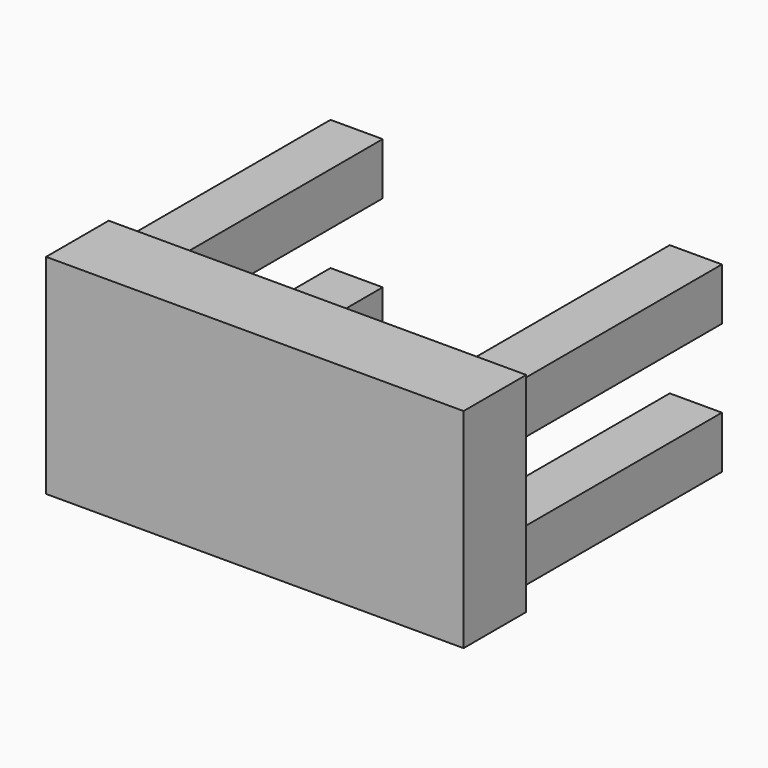
from build123d import *

# Parameters (mm, degrees)
F0_W     = 203.2
F0_H     = 101.6
F0_W_2   = 25.4
F0_H_2   = 25.4
F1_DEPTH = 38.1
F2_DEPTH = 127


with BuildPart() as f1:
    # F0 (on Front) → F1 (new body)
    with BuildSketch(Plane.XZ):
        with Locations((-2.364829, -3.819169)):
            Rectangle(F0_W, F0_H)
        with Locations((-84.914829, -35.569169)):
            Rectangle(F0_W_2, F0_H_2, mode=Mode.SUBTRACT)
        with Locations((80.185171, -35.569169)):
            Rectangle(F0_W_2, F0_H_2, mode=Mode.SUBTRACT)
        with Locations((-84.914829, 27.930831)):
            Rectangle(F0_W_2, F0_H_2, mode=Mode.SUBTRACT)
        with Locations((80.185171, 27.930831)):
            Rectangle(F0_W_2, F0_H_2, mode=Mode.SUBTRACT)
        with Locations((-84.914829, -35.569169)):
            Rectangle(F0_W_2, F0_H_2)
        with Locations((-84.914829, 27.930831)):
            Rectangle(F0_W_2, F0_H_2)
        with Locations((80.185171, 27.930831)):
            Rectangle(F0_W_2, F0_H_2)
        with Locations((80.185171, -35.569169)):
            Rectangle(F0_W_2, F0_H_2)
    extrude(amount=F1_DEPTH)


with BuildPart() as f2:
    # F0 (on Front) → F2 (new body)
    with BuildSketch(Plane.XZ):
        with Locations((-84.914829, -35.569169)):
            Rectangle(F0_W_2, F0_H_2)
        with Locations((-84.914829, 27.930831)):
            Rectangle(F0_W_2, F0_H_2)
        with Locations((80.185171, 27.930831)):
            Rectangle(F0_W_2, F0_H_2)
        with Locations((80.185171, -35.569169)):
            Rectangle(F0_W_2, F0_H_2)
    extrude(amount=-F2_DEPTH)


solid = Compound([f1.part, f2.part])
